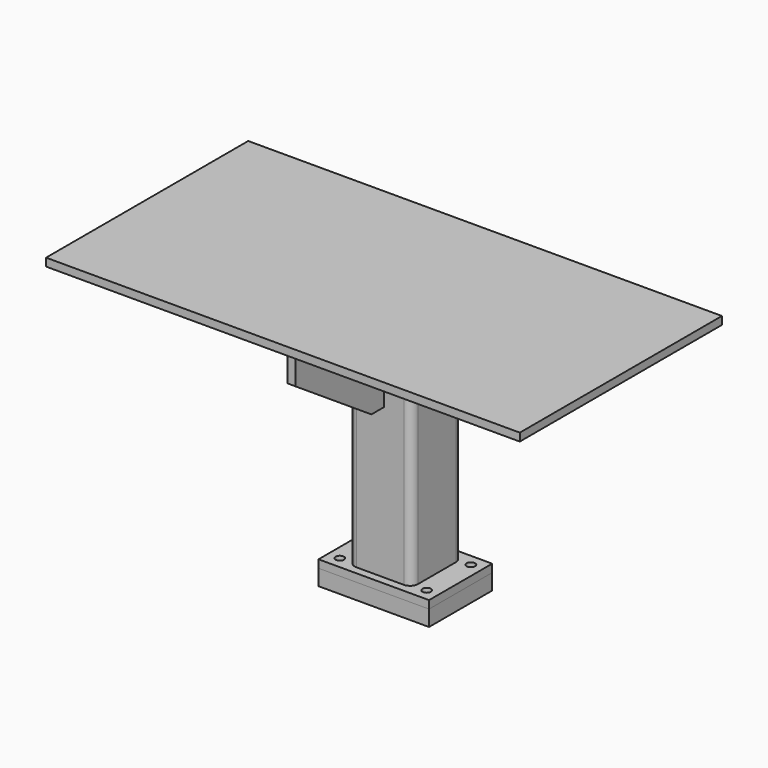
from build123d import *

# Parameters (mm, degrees)
F0_W      = 762
F0_H      = 406.4
F1_DEPTH  = 12.7
F3_DEPTH  = 393.7
F4_W      = 177.8
F4_H      = 127
F5_DEPTH  = 12.7
F7_D      = 13.49248
F7_DEPTH  = 12.7
F7_TIP    = 4.0535499425
F9_DEPTH  = 6.35
F10_W     = 177.8
F10_H     = 127
F10_R     = 6.74624
F11_DEPTH = 25.4


with BuildPart() as f1:
    # F0 (on Top) → F1 (new body)
    with BuildSketch(Plane.XY):
        Rectangle(F0_W, F0_H)
    extrude(amount=F1_DEPTH)

    # F2 (on face) → F3 (join)
    with BuildSketch(Plane(origin=(0, 0, 0), x_dir=(1, 0, 0), z_dir=(0, 0, -1))):
        with BuildLine():
            ThreePointArc((-50.8, -81.026), (-47.0802561211, -90.0062561211), (-38.1, -93.726))
            Line((-38.1, -93.726), (38.1, -93.726))
            ThreePointArc((38.1, -93.726), (47.0802561211, -90.0062561211), (50.8, -81.026))
            Line((50.8, -81.026), (50.8, -4.826))
            ThreePointArc((50.8, -4.826), (47.0802561211, 4.1542561211), (38.1, 7.874))
            Line((38.1, 7.874), (-38.1, 7.874))
            ThreePointArc((-38.1, 7.874), (-47.0802561211, 4.1542561211), (-50.8, -4.826))
            Line((-50.8, -4.826), (-50.8, -81.026))
        make_face()
        with BuildLine():
            ThreePointArc((-44.45, -4.826), (-42.5901280605, -0.3358719395), (-38.1, 1.524))
            Line((-38.1, 1.524), (38.1, 1.524))
            ThreePointArc((38.1, 1.524), (42.5901280605, -0.3358719395), (44.45, -4.826))
            Line((44.45, -4.826), (44.45, -81.026))
            ThreePointArc((44.45, -81.026), (42.5901280605, -85.5161280605), (38.1, -87.376))
            Line((38.1, -87.376), (-38.1, -87.376))
            ThreePointArc((-38.1, -87.376), (-42.5901280605, -85.5161280605), (-44.45, -81.026))
            Line((-44.45, -81.026), (-44.45, -4.826))
        make_face(mode=Mode.SUBTRACT)
    extrude(amount=F3_DEPTH)

    # F4 (on face) → F5 (join)
    with BuildSketch(Plane(origin=(0, 0, -393.7), x_dir=(1, 0, 0), z_dir=(0, 0, -1))):
        with Locations((0, -42.926)):
            Rectangle(F4_W, F4_H)
        with BuildLine():
            ThreePointArc((-38.1, -93.726), (-47.0802561211, -90.0062561211), (-50.8, -81.026))
            Line((-50.8, -81.026), (-50.8, -4.826))
            ThreePointArc((-50.8, -4.826), (-47.0802561211, 4.1542561211), (-38.1, 7.874))
            Line((-38.1, 7.874), (38.1, 7.874))
            ThreePointArc((38.1, 7.874), (47.0802561211, 4.1542561211), (50.8, -4.826))
            Line((50.8, -4.826), (50.8, -81.026))
            ThreePointArc((50.8, -81.026), (47.0802561211, -90.0062561211), (38.1, -93.726))
            Line((38.1, -93.726), (-38.1, -93.726))
        make_face(mode=Mode.SUBTRACT)
        with BuildLine():
            Line((-50.8, -4.826), (-50.8, -81.026))
            ThreePointArc((-50.8, -81.026), (-47.0802561211, -90.0062561211), (-38.1, -93.726))
            Line((-38.1, -93.726), (38.1, -93.726))
            ThreePointArc((38.1, -93.726), (47.0802561211, -90.0062561211), (50.8, -81.026))
            Line((50.8, -81.026), (50.8, -4.826))
            ThreePointArc((50.8, -4.826), (47.0802561211, 4.1542561211), (38.1, 7.874))
            Line((38.1, 7.874), (-38.1, 7.874))
            ThreePointArc((-38.1, 7.874), (-47.0802561211, 4.1542561211), (-50.8, -4.826))
        make_face()
        with BuildLine():
            Line((-44.45, -81.026), (-44.45, -4.826))
            ThreePointArc((-44.45, -4.826), (-42.5901280605, -0.3358719395), (-38.1, 1.524))
            Line((-38.1, 1.524), (38.1, 1.524))
            ThreePointArc((38.1, 1.524), (42.5901280605, -0.3358719395), (44.45, -4.826))
            Line((44.45, -4.826), (44.45, -81.026))
            ThreePointArc((44.45, -81.026), (42.5901280605, -85.5161280605), (38.1, -87.376))
            Line((38.1, -87.376), (-38.1, -87.376))
            ThreePointArc((-38.1, -87.376), (-42.5901280605, -85.5161280605), (-44.45, -81.026))
        make_face(mode=Mode.SUBTRACT)
        with BuildLine():
            ThreePointArc((-38.1, 1.524), (-42.5901280605, -0.3358719395), (-44.45, -4.826))
            Line((-44.45, -4.826), (-44.45, -81.026))
            ThreePointArc((-44.45, -81.026), (-42.5901280605, -85.5161280605), (-38.1, -87.376))
            Line((-38.1, -87.376), (38.1, -87.376))
            ThreePointArc((38.1, -87.376), (42.5901280605, -85.5161280605), (44.45, -81.026))
            Line((44.45, -81.026), (44.45, -4.826))
            ThreePointArc((44.45, -4.826), (42.5901280605, -0.3358719395), (38.1, 1.524))
            Line((38.1, 1.524), (-38.1, 1.524))
        make_face()
    extrude(amount=F5_DEPTH)

    # F7
    with Locations(Plane(origin=(0, 0, -406.4), x_dir=(1, 0, 0), z_dir=(0, 0, -1))):
        with Locations((-69.85, 1.524), (-69.85, -87.376), (69.85, -87.376), (69.85, 1.524)):
            Hole(F7_D / 2, depth=F7_DEPTH)
            with Locations((0, 0, -(F7_DEPTH + F7_TIP / 2))):  # 118° drill point
                Cone(0, F7_D / 2, F7_TIP, mode=Mode.SUBTRACT)

    # F8 (on Right) → F9 (join, symmetric)
    with BuildSketch(Plane.YZ):
        Polygon((-7.874, -152.4), (-7.874, 0), (-185.674, 0), (-185.674, -50.8), (-33.274, -152.4), align=None)
        Polygon((182.626, 0), (93.726, 0), (93.726, -152.4), (119.126, -152.4), (182.626, -50.8), align=None)
    extrude(amount=F9_DEPTH, both=True)


with BuildPart() as f11:
    # F10 (on face) → F11 (new body)
    with BuildSketch(Plane(origin=(0, 0, -406.4), x_dir=(1, 0, 0), z_dir=(0, 0, -1))):
        with Locations((0, -42.926)):
            Rectangle(F10_W, F10_H)
        with Locations((-69.85, -87.376)):
            Circle(F10_R, mode=Mode.SUBTRACT)
        with Locations((69.85, -87.376)):
            Circle(F10_R, mode=Mode.SUBTRACT)
        with Locations((-69.85, 1.524)):
            Circle(F10_R, mode=Mode.SUBTRACT)
        with Locations((69.85, 1.524)):
            Circle(F10_R, mode=Mode.SUBTRACT)
    extrude(amount=F11_DEPTH)


solid = Compound([f1.part, f11.part])
